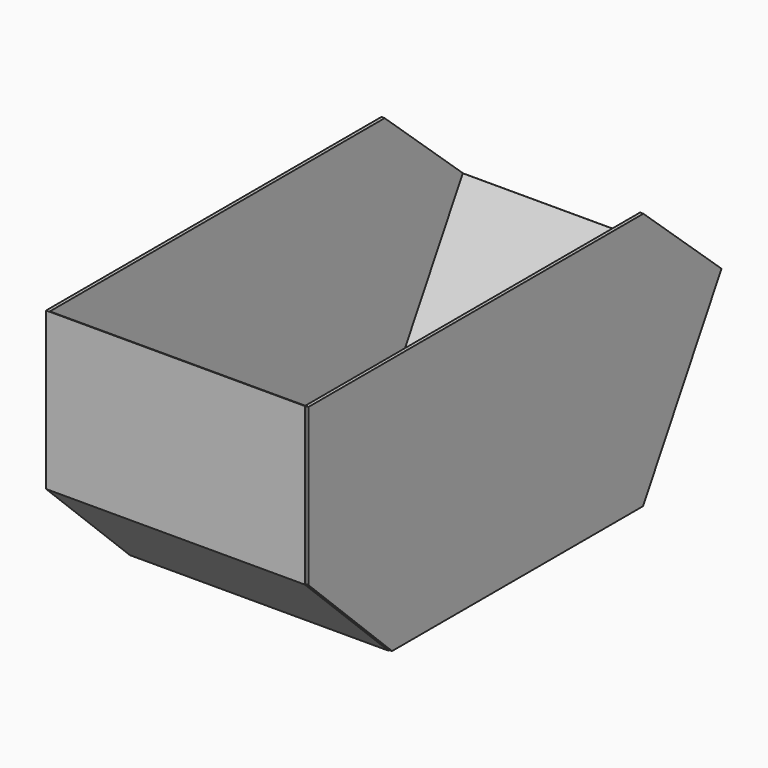
from build123d import *

# Parameters (mm, degrees)
F1_DEPTH = 25
F3_DEPTH = 1950
F5_DEPTH = 25


with BuildPart() as f1:
    # F0 (on Right) → F1 (new body)
    with BuildSketch(Plane.YZ):
        Polygon((3200, 0), (0, 0), (0, -1200), (800, -1970), (3200, -1970), (3950, -676.224649), align=None)
    extrude(amount=F1_DEPTH)

    # F2 (on face) → F3 (join)
    with BuildSketch(Plane.YZ.offset(25)):
        Polygon((3945.674279, -673.717034), (3197.119111, -1965), (802.015327, -1965), (5, -1197.872748), (5, 0), (0, 0), (0, -1200), (800, -1970), (3200, -1970), (3950, -676.224649), align=None)
    extrude(amount=F3_DEPTH)


with BuildPart() as f5:
    # F4 (on face) → F5 (new body)
    with BuildSketch(Plane.YZ.offset(1975)):
        Polygon((3950, -676.224649), (3200, 0), (5, 0), (5, -1197.872748), (802.015327, -1965), (3197.119111, -1965), (3945.674279, -673.717034), align=None)
    extrude(amount=F5_DEPTH)


solid = Compound([f1.part, f5.part])
